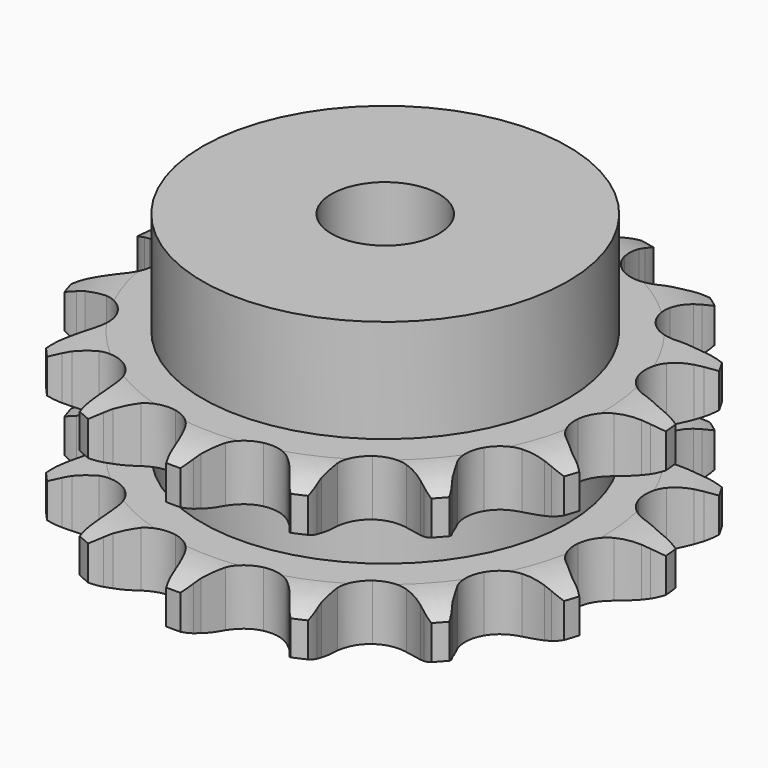
from build123d import *

# Parameters (mm, degrees)
PAD_DEPTH         = 15.4
SKETCH001_R       = 17
PAD001_DEPTH      = 25
SKETCH002_R       = 5
POCKET_DEPTH      = 0.001
POCKET_DEPTH_BACK = 25.001


with BuildPart() as part:
    # Sprocket → Pad (new body)
    with BuildSketch(Plane.XY):
        with BuildLine():
            ThreePointArc((-5.344932, 25.145928), (-4.513331, 24.290103), (-3.8949, 23.269546))
            Line((-3.8949, 23.269546), (-3.598849, 22.626869))
            ThreePointArc((-3.598849, 22.626869), (-3.108736, 21.716631), (-2.509385, 20.8743))
            ThreePointArc((-2.509385, 20.8743), (-1.39011, 19.991934), (0, 19.677385))
            ThreePointArc((0, 19.677385), (1.39011, 19.991934), (2.509385, 20.8743))
            ThreePointArc((2.509385, 20.8743), (3.108736, 21.716631), (3.598849, 22.626869))
            Line((3.598849, 22.626869), (3.8949, 23.269546))
            ThreePointArc((3.8949, 23.269546), (4.513331, 24.290103), (5.344932, 25.145928))
            ThreePointArc((5.344932, 25.145928), (5.756542, 24.025851), (5.906408, 22.841986))
            Line((5.906408, 22.841986), (5.915465, 22.134457))
            ThreePointArc((5.915465, 22.134457), (5.992978, 21.103567), (6.197906, 20.090281))
            ThreePointArc((6.197906, 20.090281), (6.861524, 18.828949), (8.003513, 17.976186))
            ThreePointArc((8.003513, 17.976186), (9.401381, 17.698132), (10.78278, 18.048963))
            Line((10.78278, 18.048963), (12.490889, 19.20689))
            ThreePointArc((12.490889, 19.20689), (12.751847, 19.445904), (13.022745, 19.673589))
            ThreePointArc((13.022745, 19.673589), (14.002808, 20.354377), (15.110608, 20.797968))
            ThreePointArc((15.110608, 20.797968), (15.031057, 19.60731), (14.686445, 18.46484))
            Line((14.686445, 18.46484), (14.406941, 17.814797))
            ThreePointArc((14.406941, 17.814797), (14.058451, 16.841504), (13.833522, 15.832469))
            ThreePointArc((13.833522, 15.832469), (13.926738, 14.410268), (14.623147, 13.16674))
            ThreePointArc((14.623147, 13.16674), (15.787068, 12.344163), (17.191734, 12.102797))
            Line((17.191734, 12.102797), (19.223141, 12.465865))
            ThreePointArc((19.223141, 12.465865), (19.558753, 12.578073), (19.898839, 12.67589))
            ThreePointArc((19.898839, 12.67589), (21.071073, 12.899193), (22.263524, 12.853851))
            ThreePointArc((22.263524, 12.853851), (21.706565, 11.798488), (20.927063, 10.894955))
            Line((20.927063, 10.894955), (20.407326, 10.414796))
            ThreePointArc((20.407326, 10.414796), (19.693091, 9.667392), (19.077196, 8.83708))
            ThreePointArc((19.077196, 8.83708), (18.583892, 7.49992), (18.714305, 6.080646))
            ThreePointArc((18.714305, 6.080646), (19.443027, 4.855775), (20.628082, 4.063947))
            Line((20.628082, 4.063947), (22.631537, 3.569378))
            ThreePointArc((22.631537, 3.569378), (22.983774, 3.53538), (23.334243, 3.486415))
            ThreePointArc((23.334243, 3.486415), (24.495957, 3.213622), (25.566873, 2.687187))
            ThreePointArc((25.566873, 2.687187), (24.628811, 1.949599), (23.549201, 1.441234))
            Line((23.549201, 1.441234), (22.879099, 1.213982))
            ThreePointArc((22.879099, 1.213982), (21.922617, 0.8217), (21.022251, 0.31368))
            ThreePointArc((21.022251, 0.31368), (20.027723, -0.707232), (19.56959, -2.056847))
            ThreePointArc((19.56959, -2.056847), (19.737111, -3.472221), (20.497646, -4.677597))
            Line((20.497646, -4.677597), (22.126735, -5.944286))
            ThreePointArc((22.126735, -5.944286), (22.434691, -6.118612), (22.734945, -6.305893))
            ThreePointArc((22.734945, -6.305893), (23.685268, -7.027614), (24.449478, -7.944117))
            ThreePointArc((24.449478, -7.944117), (23.292512, -8.236392), (22.099468, -8.26169))
            Line((22.099468, -8.26169), (21.394868, -8.19674))
            ThreePointArc((21.394868, -8.19674), (20.361522, -8.166071), (19.332367, -8.263959))
            ThreePointArc((19.332367, -8.263959), (18.008578, -8.792097), (17.041115, -9.838692))
            ThreePointArc((17.041115, -9.838692), (16.618468, -11.199837), (16.822982, -12.610341))
            Line((16.822982, -12.610341), (17.796019, -14.430129))
            ThreePointArc((17.796019, -14.430129), (18.006446, -14.714641), (18.204568, -15.007855))
            ThreePointArc((18.204568, -15.007855), (18.779181, -16.053711), (19.104546, -17.201811))
            ThreePointArc((19.104546, -17.201811), (17.928726, -16.998237), (16.828536, -16.536093))
            Line((16.828536, -16.536093), (16.21127, -16.190171))
            ThreePointArc((16.21127, -16.190171), (15.279736, -15.741854), (14.299741, -15.412684))
            ThreePointArc((14.299741, -15.412684), (12.875587, -15.356729), (11.566077, -15.919339))
            ThreePointArc((11.566077, -15.919339), (10.626342, -16.990901), (10.239471, -18.362643))
            Line((10.239471, -18.362643), (10.38821, -20.420872))
            ThreePointArc((10.38821, -20.420872), (10.464723, -20.766375), (10.526455, -21.114823))
            ThreePointArc((10.526455, -21.114823), (10.626003, -22.303976), (10.456265, -23.485155))
            ThreePointArc((10.456265, -23.485155), (9.4649, -22.820932), (8.647798, -21.951255))
            Line((8.647798, -21.951255), (8.224596, -21.384175))
            ThreePointArc((8.224596, -21.384175), (7.555944, -20.595728), (6.79456, -19.896416))
            ThreePointArc((6.79456, -19.896416), (5.516289, -19.266043), (4.091158, -19.247387))
            ThreePointArc((4.091158, -19.247387), (2.796825, -19.844083), (1.885462, -20.939877))
            Line((1.885462, -20.939877), (1.184185, -22.880661))
            ThreePointArc((1.184185, -22.880661), (1.113554, -23.227414), (1.028223, -23.570846))
            ThreePointArc((1.028223, -23.570846), (0.635493, -24.697681), (0, -25.707703))
            ThreePointArc((0, -25.707703), (-0.635493, -24.697681), (-1.028223, -23.570846))
            Line((-1.028223, -23.570846), (-1.184185, -22.880661))
            ThreePointArc((-1.184185, -22.880661), (-1.474339, -21.888413), (-1.885462, -20.939877))
            ThreePointArc((-1.885462, -20.939877), (-2.796825, -19.844083), (-4.091158, -19.247387))
            ThreePointArc((-4.091158, -19.247387), (-5.516289, -19.266043), (-6.79456, -19.896416))
            Line((-6.79456, -19.896416), (-8.224596, -21.384175))
            ThreePointArc((-8.224596, -21.384175), (-8.430158, -21.672222), (-8.647798, -21.951255))
            ThreePointArc((-8.647798, -21.951255), (-9.4649, -22.820932), (-10.456265, -23.485155))
            ThreePointArc((-10.456265, -23.485155), (-10.626003, -22.303976), (-10.526455, -21.114823))
            Line((-10.526455, -21.114823), (-10.38821, -20.420872))
            ThreePointArc((-10.38821, -20.420872), (-10.249695, -19.396393), (-10.239471, -18.362643))
            ThreePointArc((-10.239471, -18.362643), (-10.626342, -16.990901), (-11.566077, -15.919339))
            ThreePointArc((-11.566077, -15.919339), (-12.875587, -15.356729), (-14.299741, -15.412684))
            Line((-14.299741, -15.412684), (-16.21127, -16.190171))
            ThreePointArc((-16.21127, -16.190171), (-16.516219, -16.369706), (-16.828536, -16.536093))
            ThreePointArc((-16.828536, -16.536093), (-17.928726, -16.998237), (-19.104546, -17.201811))
            ThreePointArc((-19.104546, -17.201811), (-18.779181, -16.053711), (-18.204568, -15.007855))
            Line((-18.204568, -15.007855), (-17.796019, -14.430129))
            ThreePointArc((-17.796019, -14.430129), (-17.252786, -13.55056), (-16.822982, -12.610341))
            ThreePointArc((-16.822982, -12.610341), (-16.618468, -11.199837), (-17.041115, -9.838692))
            ThreePointArc((-17.041115, -9.838692), (-18.008578, -8.792097), (-19.332367, -8.263959))
            Line((-19.332367, -8.263959), (-21.394868, -8.19674))
            ThreePointArc((-21.394868, -8.19674), (-21.746476, -8.236719), (-22.099468, -8.26169))
            ThreePointArc((-22.099468, -8.26169), (-23.292512, -8.236392), (-24.449478, -7.944117))
            ThreePointArc((-24.449478, -7.944117), (-23.685268, -7.027614), (-22.734945, -6.305893))
            Line((-22.734945, -6.305893), (-22.126735, -5.944286))
            ThreePointArc((-22.126735, -5.944286), (-21.272714, -5.361712), (-20.497646, -4.677597))
            ThreePointArc((-20.497646, -4.677597), (-19.737111, -3.472221), (-19.56959, -2.056847))
            ThreePointArc((-19.56959, -2.056847), (-20.027723, -0.707232), (-21.022251, 0.31368))
            Line((-21.022251, 0.31368), (-22.879099, 1.213982))
            ThreePointArc((-22.879099, 1.213982), (-23.21657, 1.320472), (-23.549201, 1.441234))
            ThreePointArc((-23.549201, 1.441234), (-24.628811, 1.949599), (-25.566873, 2.687187))
            ThreePointArc((-25.566873, 2.687187), (-24.495957, 3.213622), (-23.334243, 3.486415))
            Line((-23.334243, 3.486415), (-22.631537, 3.569378))
            ThreePointArc((-22.631537, 3.569378), (-21.614396, 3.754224), (-20.628082, 4.063947))
            ThreePointArc((-20.628082, 4.063947), (-19.443027, 4.855775), (-18.714305, 6.080646))
            ThreePointArc((-18.714305, 6.080646), (-18.583892, 7.49992), (-19.077196, 8.83708))
            Line((-19.077196, 8.83708), (-20.407326, 10.414796))
            ThreePointArc((-20.407326, 10.414796), (-20.672308, 10.649341), (-20.927063, 10.894955))
            ThreePointArc((-20.927063, 10.894955), (-21.706565, 11.798488), (-22.263524, 12.853851))
            ThreePointArc((-22.263524, 12.853851), (-21.071073, 12.899193), (-19.898839, 12.67589))
            Line((-19.898839, 12.67589), (-19.223141, 12.465865))
            ThreePointArc((-19.223141, 12.465865), (-18.218753, 12.221021), (-17.191734, 12.102797))
            ThreePointArc((-17.191734, 12.102797), (-15.787068, 12.344163), (-14.623147, 13.16674))
            ThreePointArc((-14.623147, 13.16674), (-13.926738, 14.410268), (-13.833522, 15.832469))
            Line((-13.833522, 15.832469), (-14.406941, 17.814797))
            ThreePointArc((-14.406941, 17.814797), (-14.553616, 18.136842), (-14.686445, 18.46484))
            ThreePointArc((-14.686445, 18.46484), (-15.031057, 19.60731), (-15.110608, 20.797968))
            ThreePointArc((-15.110608, 20.797968), (-14.002808, 20.354377), (-13.022745, 19.673589))
            Line((-13.022745, 19.673589), (-12.490889, 19.20689))
            ThreePointArc((-12.490889, 19.20689), (-11.672922, 18.574693), (-10.78278, 18.048963))
            ThreePointArc((-10.78278, 18.048963), (-9.401381, 17.698132), (-8.003513, 17.976186))
            ThreePointArc((-8.003513, 17.976186), (-6.861524, 18.828949), (-6.197906, 20.090281))
            Line((-6.197906, 20.090281), (-5.915465, 22.134457))
            ThreePointArc((-5.915465, 22.134457), (-5.918472, 22.488318), (-5.906408, 22.841986))
            ThreePointArc((-5.906408, 22.841986), (-5.756542, 24.025851), (-5.344932, 25.145928))
        make_face()
    extrude(amount=PAD_DEPTH)

    # Sketch → Groove (revolve, cut)
    with BuildSketch(Plane.XZ):
        with BuildLine():
            ThreePointArc((20.291101, 0), (22.527169, 0.253206), (24.65, 1))
            Line((24.65, 1), (24.65, 4.2))
            ThreePointArc((24.65, 4.2), (22.527169, 4.946794), (20.291101, 5.2))
            Line((17, 5.2), (20.291101, 5.2))
            Line((17, 10.2), (17, 5.2))
            Line((20.291101, 10.2), (17, 10.2))
            ThreePointArc((20.291101, 10.2), (22.527169, 10.453206), (24.65, 11.2))
            Line((24.65, 11.2), (24.65, 14.4))
            ThreePointArc((24.65, 14.4), (22.527169, 15.146794), (20.291101, 15.4))
            Line((20.291101, 15.4), (30.291101, 15.4))
            Line((30.291101, 15.4), (30.291101, 0))
            Line((20.291101, 0), (30.291101, 0))
        make_face()
    revolve(axis=Axis((0, 0, 0), (0, 0, 1)), mode=Mode.SUBTRACT)

    # Sketch001 → Pad001 (join)
    with BuildSketch(Plane.XY):
        Circle(SKETCH001_R)
    extrude(amount=PAD001_DEPTH)

    # Sketch002 → Pocket (cut, two sides)
    with BuildSketch(Plane.XY) as pocket_sk:
        Circle(SKETCH002_R)
    extrude(amount=-POCKET_DEPTH, mode=Mode.SUBTRACT)
    extrude(pocket_sk.sketch, amount=POCKET_DEPTH_BACK, mode=Mode.SUBTRACT)


solid = part.part
